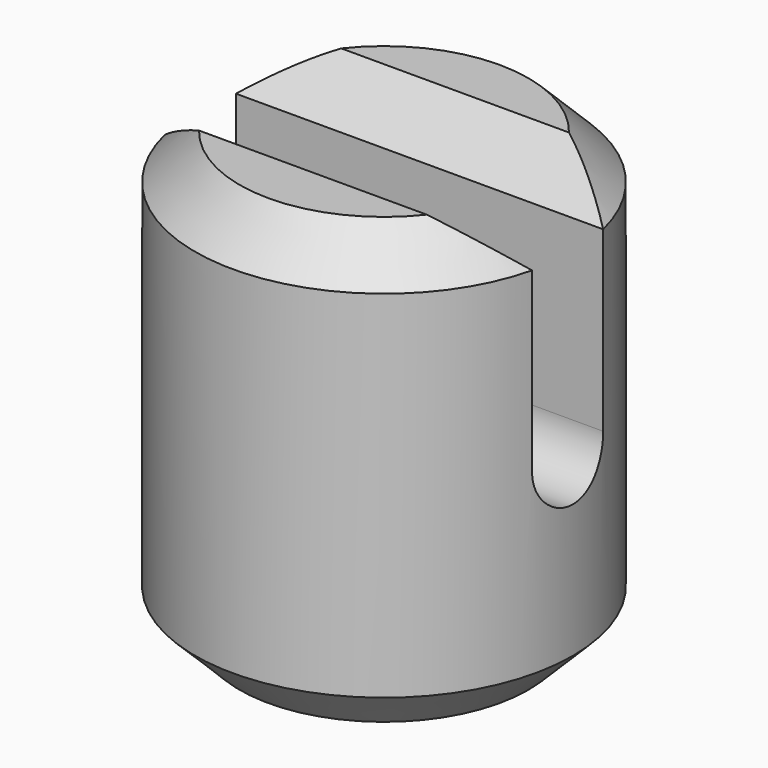
from build123d import *

# Parameters (mm, degrees)
BOX_W                   = 20
BOX_H                   = 4
BOX_DEPTH               = 10
CYLINDER001_R           = 2
CYLINDER001_DEPTH       = 20
CYLINDER001_PITCH_ANGLE = 90
CYLINDER_R              = 8.5
CYLINDER_DEPTH          = 20
CHAMFER_SIZE            = 2


with BuildPart() as cube:
    # Box → Box (new body)
    with BuildSketch(Plane(origin=(-10, -2, 10), x_dir=(1, 0, 0), z_dir=(0, 0, 1))):
        with Locations((10, 2)):
            Rectangle(BOX_W, BOX_H)
    extrude(amount=BOX_DEPTH)


with BuildPart() as fusion:
    # Cylinder001 → Cylinder001 (new body)
    with BuildSketch(Plane.XY):
        Circle(CYLINDER001_R)
    extrude(amount=CYLINDER001_DEPTH)


with BuildPart() as fusion_1:
    # Cylinder001 pitch: moved
    add(fusion.part.rotate(Axis((0, 0, 0), (0, 1, 0)), CYLINDER001_PITCH_ANGLE))


with BuildPart() as fusion_2:
    # Cylinder001 placement: moved
    add(fusion_1.part.moved(Location((-10, 0, 10))))

    # Fusion: union Cube
    add(cube.part)


with BuildPart() as chamfer_body:
    # Cylinder → Cylinder (new body)
    with BuildSketch(Plane.XY):
        Circle(CYLINDER_R)
    extrude(amount=CYLINDER_DEPTH)

    # Cut: cut Fusion
    add(fusion_2.part, mode=Mode.SUBTRACT)

    # Chamfer
    chamfer_edges = [chamfer_body.edges().sort_by_distance(p)[0] for p in [
        (0, 8.5, 20),
        (0, -8.5, 20),
        (-8.5, 0, 0),
        (0, 2, 20),
        (0, -2, 20),
    ]]
    chamfer(chamfer_edges, length=CHAMFER_SIZE)


solid = chamfer_body.part
